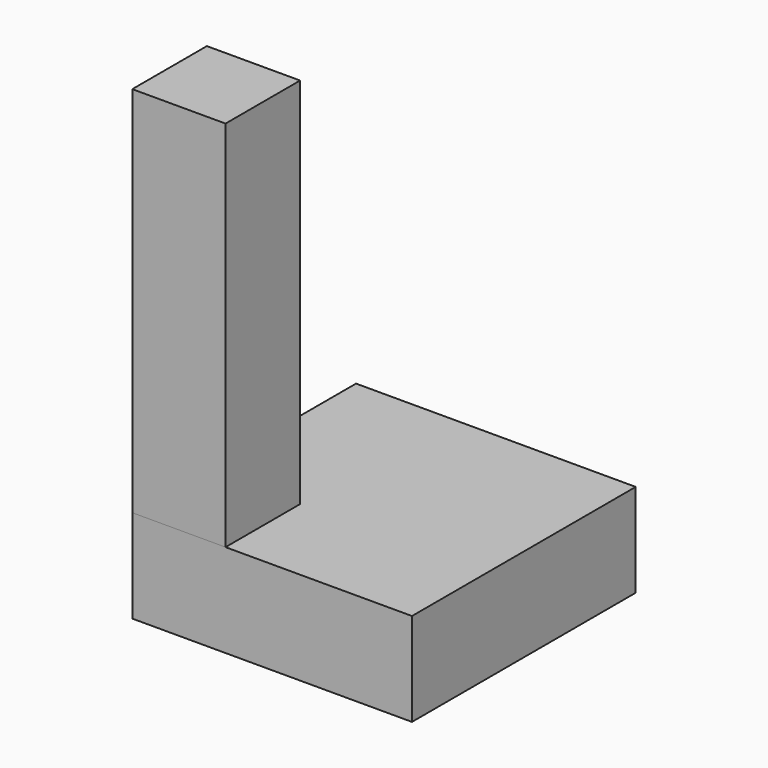
from build123d import *

# Parameters (mm, degrees)
BOX001_W     = 10
BOX001_H     = 10
BOX001_DEPTH = 50
BOX_W        = 30
BOX_H        = 30
BOX_DEPTH    = 10


with BuildPart() as cub:
    # Box001 → Box001 (new body)
    with BuildSketch(Plane.XY):
        with Locations((5, 5)):
            Rectangle(BOX001_W, BOX001_H)
    extrude(amount=BOX001_DEPTH)


with BuildPart() as cub001:
    # Box → Box (new body)
    with BuildSketch(Plane.XY):
        with Locations((15, 15)):
            Rectangle(BOX_W, BOX_H)
    extrude(amount=BOX_DEPTH)


solid = Compound([cub.part, cub001.part])
